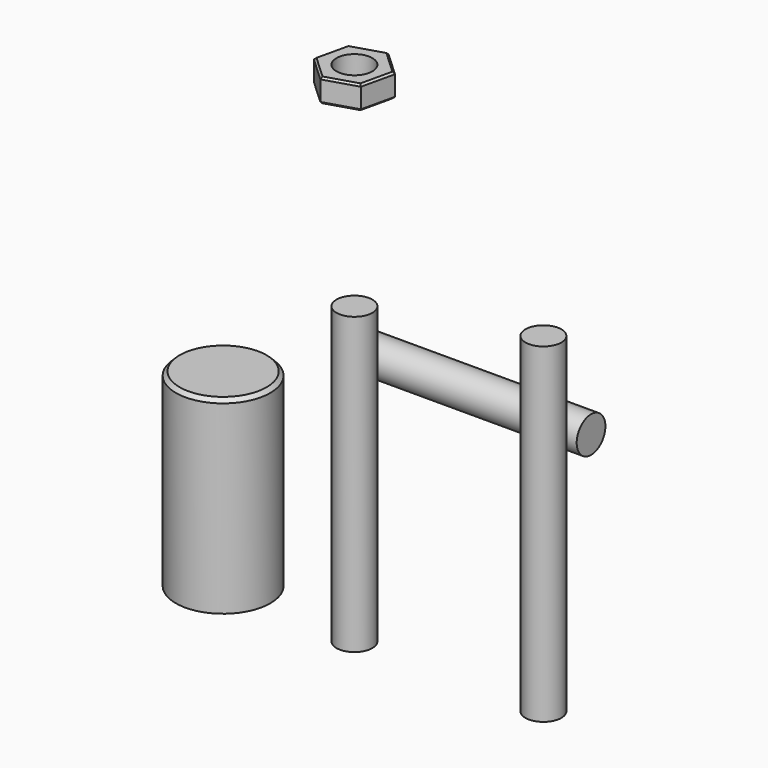
from build123d import *

# Parameters (mm, degrees)
F0_R       = 2.413
F1_DEPTH   = 39.6748
F3_DEPTH   = 4.7498
F5_R       = 2.413
F6_DEPTH   = 3.175
F7_SIZE    = 0.254
F8_R       = 6.35
F9_DEPTH   = 25.4
F10_R      = 4.7625
F11_DEPTH  = 6.35
F13_D      = 4.0386
F13_DEPTH  = 9.525
F13_TIP    = 1.213317848
F15_R      = 2.413
F16_DEPTH  = 6.351
F17_R      = 2.413
F18_DEPTH  = 31.75
F19_SIZE   = 0.508
F19_2_SIZE = 0.508


with BuildPart() as f1:
    # F0 (on Top) → F1 (new body)
    with BuildSketch(Plane.XY):
        with Locations((13.1162918267, 0)):
            Circle(F0_R)
    extrude(amount=F1_DEPTH)


with BuildPart() as f2_1:
    # F2: copy of F1
    add(f1.part.moved(Location((25.4, 0, 0))))

    # F3 (add): a face of the model
    f3_faces = [f2_1.faces().sort_by_distance(p)[0] for p in [
        (38.5162918267, 0, 39.6748),
    ]]
    extrude(f3_faces, amount=F3_DEPTH)


with BuildPart() as f6:
    # F5 (on offset) → F6 (new body)
    with BuildSketch(Plane.XY.offset(65.0748)):
        Polygon((9.7633792917, 3.1132184653), (8.7437092808, -1.3470981994), (12.0966218158, -4.4603166646), (16.4692043617, -3.1132184653), (17.4888743727, 1.3470981994), (14.1359618377, 4.4603166646), align=None)
        with Locations((13.1162918267, 0)):
            Circle(F5_R, mode=Mode.SUBTRACT)
    extrude(amount=F6_DEPTH)

    # F7
    f7_edges = [f6.edges().sort_by_distance(p)[0] for p in [
        (9.253544, 0.88306, 68.2498),
        (11.949671, 3.786768, 68.2498),
        (15.812418, 2.903707, 68.2498),
        (16.979039, -0.88306, 68.2498),
        (14.282913, -3.786768, 68.2498),
        (10.420166, -2.903707, 68.2498),
        (15.812418, 2.903707, 65.0748),
        (11.949671, 3.786768, 65.0748),
        (9.253544, 0.88306, 65.0748),
        (10.420166, -2.903707, 65.0748),
        (14.282913, -3.786768, 65.0748),
        (16.979039, -0.88306, 65.0748),
    ]]
    chamfer(f7_edges, length=F7_SIZE)


with BuildPart() as f9:
    # F8 (on Top) → F9 (new body)
    with BuildSketch(Plane.XY):
        with Locations((-5.549098365, 1.2644021772)):
            Circle(F8_R)
    extrude(amount=F9_DEPTH)

    # F10 (on face) → F11 (cut)
    with BuildSketch(Plane(origin=(0, 0, 0), x_dir=(1, 0, 0), z_dir=(0, 0, -1))):
        with Locations((-5.549098365, -1.2644021772)):
            Circle(F10_R)
    extrude(amount=-F11_DEPTH, mode=Mode.SUBTRACT)

    # F13
    with Locations(Plane(origin=(0, 0, 6.35), x_dir=(1, 0, 0), z_dir=(0, 0, -1))):
        with Locations((-5.549098365, -1.2644021772)):
            Hole(F13_D / 2, depth=F13_DEPTH)
            with Locations((0, 0, -(F13_DEPTH + F13_TIP / 2))):  # 118° drill point
                Cone(0, F13_D / 2, F13_TIP, mode=Mode.SUBTRACT)

    # F15 (on face) → F16 (cut, through all)
    with BuildSketch(Plane.YZ.offset(-5.549098365)):
        with Locations((1.2644021772, 20.574)):
            Circle(F15_R)
    extrude(amount=-F16_DEPTH, mode=Mode.SUBTRACT)

    # F19#2
    f19_2_edges = [f9.edges().sort_by_distance(p)[0] for p in [
        (-11.899098, 1.264402, 25.4),
    ]]
    chamfer(f19_2_edges, length=F19_2_SIZE)


with BuildPart() as f18:
    # F17 (on Right) → F18 (new body)
    with BuildSketch(Plane.YZ):
        with Locations((16.4590254426, 23.8507483155)):
            Circle(F17_R)
    extrude(amount=F18_DEPTH)

    # F19
    f19_edges = [f18.edges().sort_by_distance(p)[0] for p in [
        (0, 14.046025, 23.850748),
    ]]
    chamfer(f19_edges, length=F19_SIZE)


solid = Compound([f1.part, f2_1.part, f6.part, f9.part, f18.part])
